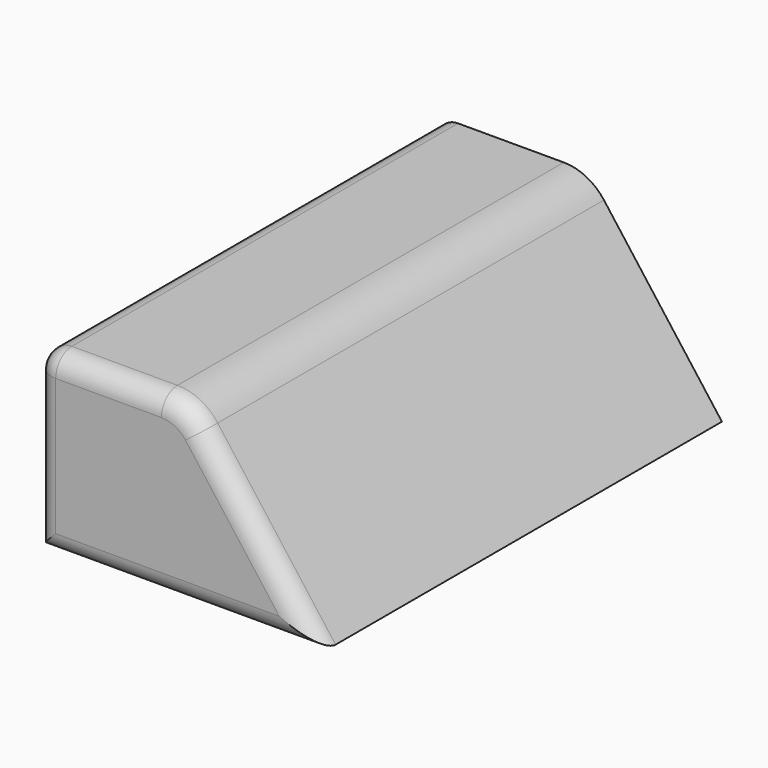
from build123d import *

# Parameters (mm, degrees)
F1_DEPTH = 127
F2_R     = 12.7
F3_R     = 5.08


with BuildPart() as f1:
    # F0 (on Front) → F1 (new body)
    with BuildSketch(Plane.XZ):
        Polygon((-41.956668, 44.650039), (-41.956668, 0), (29.74316, 0), (-3.856668, 44.650039), align=None)
    extrude(amount=F1_DEPTH)

    # F2
    f2_edges = [f1.edges().sort_by_distance(p)[0] for p in [
        (-3.856668, -63.5, 44.650039),
    ]]
    fillet(f2_edges, radius=F2_R)

    # F3
    f3_edges = [f1.edges().sort_by_distance(p)[0] for p in [
        (-26.07529, -127, 44.650039),
        (-4.523432, -127, 43.313826),
        (-41.956668, -127, 22.325019),
        (14.848492, -127, 19.793182),
        (-6.106754, -127, 0),
        (-41.956668, -63.5, 44.650039),
    ]]
    fillet(f3_edges, radius=F3_R)


solid = f1.part
